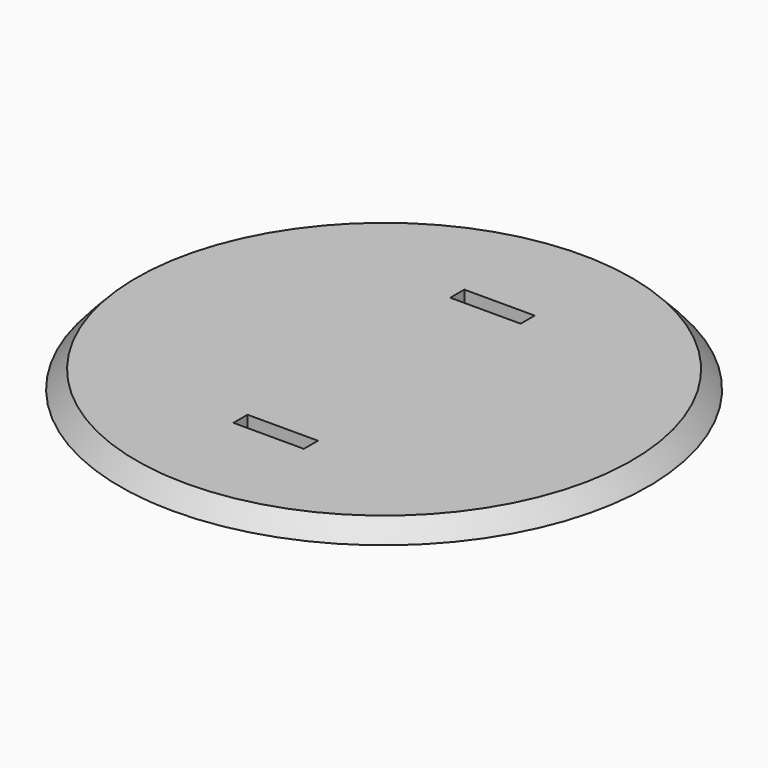
from build123d import *

# Parameters (mm, degrees)
SKETCH018_R         = 75
SKETCH018_W         = 5
SKETCH018_H         = 20
PAD018_DEPTH        = 5
CUT_PLACEMENT_ANGLE = 90


with BuildPart() as revolution:
    # Sketch019 → Revolution (revolve)
    with BuildSketch(Plane.XZ):
        with BuildLine():
            Line((-75, 0), (-75, 5))
            Line((-75, 5), (-70.356236, 5))
            ThreePointArc((-70.356236, 5), (-72.721103, 2.539923), (-75, 0))
        make_face()
    revolve(axis=Axis((0, 0, 0), (0, 0, 1)))


with BuildPart() as bowlsupport:
    # Sketch018 → Pad018 (new body)
    with BuildSketch(Plane.XY):
        Circle(SKETCH018_R)
        with Locations((-38.5, 0)):
            Rectangle(SKETCH018_W, SKETCH018_H, mode=Mode.SUBTRACT)
        with Locations((38.5, 0)):
            Rectangle(SKETCH018_W, SKETCH018_H, mode=Mode.SUBTRACT)
    extrude(amount=PAD018_DEPTH)

    # Cut: cut Revolution
    add(revolution.part, mode=Mode.SUBTRACT)


with BuildPart() as bowlsupport_1:
    # Cut placement: moved
    add(bowlsupport.part.moved(Location((0, 36, 160))).rotate(Axis((0, 36, 160), (0, 0, 1)), CUT_PLACEMENT_ANGLE))


solid = bowlsupport_1.part
